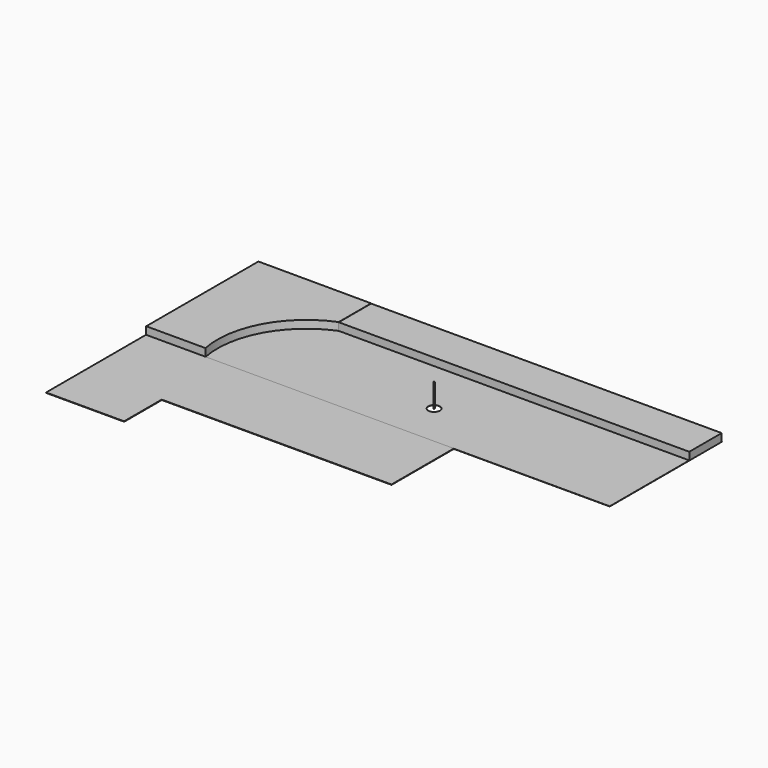
from build123d import *

# Parameters (mm, degrees)
F1_DEPTH  = 5
F3_DEPTH  = 10
F4_W      = 9000
F4_H      = 1040
F5_DEPTH  = 200
F7_D      = 300
F9_DEPTH  = 600
F11_DEPTH = 200


with BuildPart() as f1:
    # F0 (on Top) → F1 (new body)
    with BuildSketch(Plane.XY):
        Polygon((-4000, 0), (0, 0), (0, 3600), (-11900, 3600), (-11900, -3200), (-9900, -3200), (-9900, -2000), (-9900, 0), align=None)
    extrude(amount=F1_DEPTH)

    # F2 (on Top) → F3 (join)
    with BuildSketch(Plane.XY):
        Polygon((-4001.995659, 0), (-9901.995659, 0), (-11905.305862, 0), (-11905.305862, -3207.338095), (-9901.995659, -3207.338095), (-9901.995659, -2000), (-4001.995659, -2000), align=None)
    extrude(amount=F3_DEPTH)

    # F4 (on Top) → F5 (join)
    with BuildSketch(Plane.XY):
        with Locations((-4500, 3072.643023)):
            Rectangle(F4_W, F4_H)
    extrude(amount=F5_DEPTH)

    # F7 (through all)
    with Locations(Plane.XY.offset(5)):
        with Locations((-5401.995659, 1115)):
            Hole(F7_D / 2)

    # F10 (on face) → F11 (join)
    with BuildSketch(Plane.XY.offset(5)):
        with BuildLine():
            ThreePointArc((-10380.326271, 0), (-10148.371333, 1524.094822), (-9000, 2552.643023))
            Line((-9000, 2552.643023), (-9000, 3592.643023))
            Line((-9000, 3592.643023), (-11900, 3600))
            Line((-11900, 3600), (-11900, 0))
            Line((-11900, 0), (-10380.326271, 0))
        make_face()
    extrude(amount=F11_DEPTH)


with BuildPart() as f9:
    # F8 (on face) → F9 (new body)
    with BuildSketch(Plane.XY.offset(5)):
        with BuildLine():
            ThreePointArc((-5391.995659, 1115), (-5409.066727, 1122.071068), (-5401.995659, 1105))
            ThreePointArc((-5401.995659, 1105), (-5394.924591, 1107.928932), (-5391.995659, 1115))
        make_face()
        with BuildLine():
            ThreePointArc((-5386.995659, 1115), (-5412.602261, 1125.606602), (-5401.995659, 1100))
            ThreePointArc((-5401.995659, 1100), (-5391.389057, 1104.393398), (-5386.995659, 1115))
        make_face()
        with BuildLine():
            ThreePointArc((-5391.995659, 1115), (-5394.924591, 1107.928932), (-5401.995659, 1105))
            ThreePointArc((-5401.995659, 1105), (-5409.066727, 1122.071068), (-5391.995659, 1115))
        make_face(mode=Mode.SUBTRACT)
    extrude(amount=F9_DEPTH)


solid = Compound([f1.part, f9.part])
